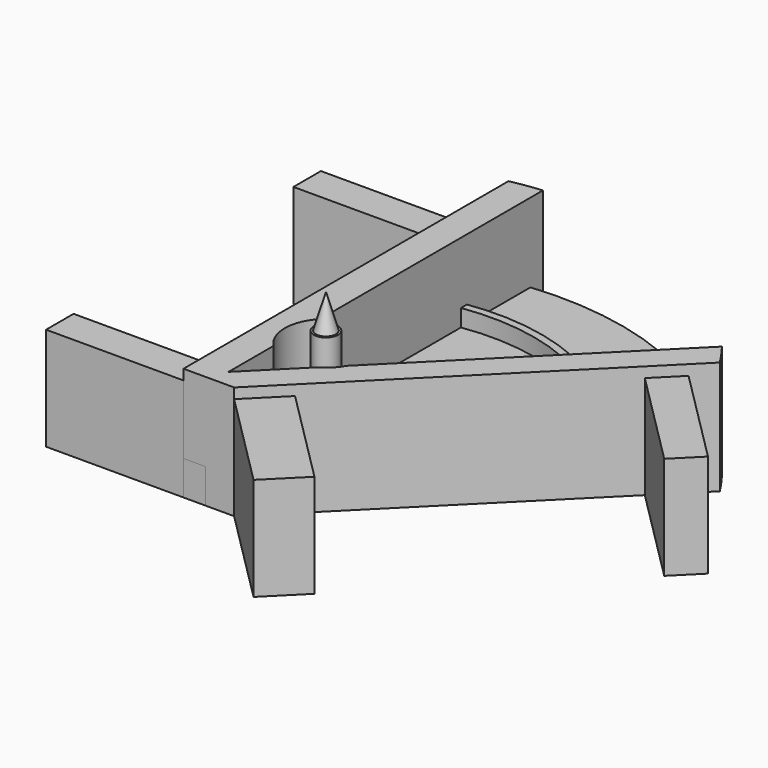
from build123d import *

# Parameters (mm, degrees)
F1_DEPTH  = 8.382
F3_DEPTH  = 2.54
F2_W      = 8.050916653
F2_H      = 2.54
F2_W_2    = 1.6165730776
F2_W_3    = 2.109083347
F2_W_4    = 8.7637735362
F2_W_5    = 1.3216704829
F2_W_6    = 1.3962264638
F2_W_7    = 1.5293723554
F2_H_2    = 5.9558576904
F4_R      = 0.889
F5_DEPTH  = 9.2456
F7_DEPTH  = 3.81
F11_DEPTH = 7.62


with BuildPart() as f1:
    # F0 (on Top) → F1 (new body)
    with BuildSketch(Plane.XY):
        with BuildLine():
            Line((3.7485493437, 0), (23.6961988577, 19.947649514))
            ThreePointArc((23.6961988577, 19.947649514), (23.1385430874, 20.7779271482), (22.5451034559, 21.583017399))
            Line((22.5451034559, 21.583017399), (7.1187551725, 6.1566691156))
            ThreePointArc((7.1187551725, 6.1566691156), (6.6002614691, 5.4647385309), (5.9083308844, 4.9462448275))
            Line((5.9083308844, 4.9462448275), (2.2759593506, 1.3138732936))
            Line((2.2759593506, 1.3138732936), (2.2759593506, 0))
            Line((2.2759593506, 0), (3.7485493437, 0))
        make_face()
        with BuildLine():
            ThreePointArc((2.2759593506, 30.3768640779), (1.1337863589, 30.2389182814), (0, 30.0436833504))
            Line((0, 30.0436833504), (0, 0))
            Line((0, 0), (2.2759593506, 0))
            Line((2.2759593506, 0), (2.2759593506, 1.3138732936))
            Line((2.2759593506, 1.3138732936), (2.2759593506, 5.4786063741))
            ThreePointArc((2.2759593506, 5.4786063741), (1.397, 7.62), (2.2759593506, 9.7613936259))
            Line((2.2759593506, 9.7613936259), (2.2759593506, 30.3768640779))
        make_face()
    extrude(amount=F1_DEPTH)


with BuildPart() as f3:
    # F2 (on Top) → F3 (new body)
    with BuildSketch(Plane.XY):
        Polygon((6.2448288078, 2.5021023202), (3.7429869211, 0), (10.9275657147, -7.1838309806), (13.4294076014, -4.6817286604), align=None)
    extrude(amount=F3_DEPTH)


with BuildPart() as f3b:
    # F2 (on Top) → F3, piece 2 (new body)
    with BuildSketch(Plane.XY):
        Polygon((22.4084485141, 18.6674046059), (20.612490769, 16.8712599075), (27.7970695626, 9.6874289269), (29.5930273078, 11.4835736253), align=None)
    extrude(amount=F3_DEPTH)


with BuildPart() as f3c:
    # F2 (on Top) → F3, piece 3 (new body)
    with BuildSketch(Plane.XY):
        with Locations((-6.1345416735, 1.27)):
            Rectangle(F2_W, F2_H)
        with Locations((0.8082865388, 1.27)):
            Rectangle(F2_W_2, F2_H)
        with Locations((-1.0545416735, 1.27)):
            Rectangle(F2_W_3, F2_H)
    extrude(amount=F3_DEPTH)


with BuildPart() as f3d:
    # F2 (on Top) → F3, piece 4 (new body)
    with BuildSketch(Plane.XY):
        with Locations((-5.7781132319, 24.13)):
            Rectangle(F2_W_4, F2_H)
        with Locations((0.6608352414, 24.13)):
            Rectangle(F2_W_5, F2_H)
        with Locations((-0.6981132319, 24.13)):
            Rectangle(F2_W_6, F2_H)
    extrude(amount=F3_DEPTH)


with BuildPart() as f3e:
    # F2 (on Top) → F3, piece 5 (new body)
    with BuildSketch(Plane.XY):
        Polygon((6.899998989, 4.2223650962), (7.9633320999, 6.9349787761), (4.6019532938, 3.541349678), align=None)
        with Locations((1.4182971499, 7.9266179819)):
            Rectangle(F2_W_7, F2_H_2)
        with BuildLine():
            Line((7.9633320999, 6.9349787761), (21.9720159885, 21.0780670779))
            ThreePointArc((21.9720159885, 21.0780670779), (13.0924177111, 27.6152035166), (2.1829833277, 29.2169712334))
            Line((2.1829833277, 29.2169712334), (2.1829833277, 10.9045468271))
            Line((2.1829833277, 10.9045468271), (2.1829833277, 4.9486891367))
            Line((2.1829833277, 4.9486891367), (2.1829833277, 1.0991712334))
            Line((2.1829833277, 1.0991712334), (4.6019532938, 3.541349678))
            Line((4.6019532938, 3.541349678), (7.9633320999, 6.9349787761))
        make_face()
    extrude(amount=F3_DEPTH)

    # F4 (on Top) → F5 (join)
    with BuildSketch(Plane.XY):
        with Locations((4.4731078669, 7.5750704855)):
            Circle(F4_R)
    extrude(amount=F5_DEPTH)


with BuildPart() as f7:
    # F6 (on Top) → F7 (new body)
    with BuildSketch(Plane.XY):
        with BuildLine():
            Line((10.2542703971, 9.1733094305), (10.663289557, 9.7630766937))
            ThreePointArc((10.663289557, 9.7630766937), (7.2644825882, 13.4957673027), (2.2209716257, 13.7145483921))
            Line((2.2209716257, 13.7145483921), (2.2209716257, 13.1041229547))
            ThreePointArc((2.2209716257, 13.1041229547), (7.1166456012, 12.9351553046), (10.2542703971, 9.1733094305))
        make_face()
    extrude(amount=F7_DEPTH)


with BuildPart() as f7b:
    # F6 (on Top) → F7, piece 2 (new body)
    with BuildSketch(Plane.XY):
        with BuildLine():
            ThreePointArc((2.2209716257, 22.7923383599), (10.6547311493, 21.6677580329), (17.2066246046, 16.2395287853))
            Line((17.2066246046, 16.2395287853), (17.8702827543, 16.2395287853))
            ThreePointArc((17.8702827543, 16.2395287853), (11.0002918162, 22.1189332808), (2.0385167454, 23.3234083914))
            Line((2.0385167454, 23.3234083914), (2.2209716257, 22.7923383599))
        make_face()
    extrude(amount=F7_DEPTH)


with BuildPart() as f10:
    # F9 (on offset) → F10 (revolve)
    with BuildSketch(Plane.XZ.offset(-7.574534)):
        Polygon((4.4731178, 11.7640467361), (4.4731178, 10.1937586442), (4.4731178, 9.1838361695), (5.2351178, 9.1838361695), align=None)
    revolve(axis=Axis((4.4731178, 7.574534, 4.191), (0, 0, -1)))


with BuildPart() as f11:
    # F2 (on Top) → F11 (new body)
    with BuildSketch(Plane.XY):
        with Locations((-5.7781132319, 24.13)):
            Rectangle(F2_W_4, F2_H)
        with Locations((-0.6981132319, 24.13)):
            Rectangle(F2_W_6, F2_H)
    extrude(amount=F11_DEPTH)


with BuildPart() as f11b:
    # F2 (on Top) → F11, piece 2 (new body)
    with BuildSketch(Plane.XY):
        with Locations((-6.1345416735, 1.27)):
            Rectangle(F2_W, F2_H)
        with Locations((-1.0545416735, 1.27)):
            Rectangle(F2_W_3, F2_H)
    extrude(amount=F11_DEPTH)


with BuildPart() as f11c:
    # F2 (on Top) → F11, piece 3 (new body)
    with BuildSketch(Plane.XY):
        Polygon((6.2448288078, 2.5021023202), (3.7429869211, 0), (10.9275657147, -7.1838309806), (13.4294076014, -4.6817286604), align=None)
    extrude(amount=F11_DEPTH)


with BuildPart() as f11d:
    # F2 (on Top) → F11, piece 4 (new body)
    with BuildSketch(Plane.XY):
        Polygon((22.4084485141, 18.6674046059), (20.612490769, 16.8712599075), (27.7970695626, 9.6874289269), (29.5930273078, 11.4835736253), align=None)
    extrude(amount=F11_DEPTH)


solid = Compound([f1.part, f3.part, f3b.part, f3c.part, f3d.part, f3e.part, f7.part, f7b.part, f10.part, f11.part, f11b.part, f11c.part, f11d.part])
